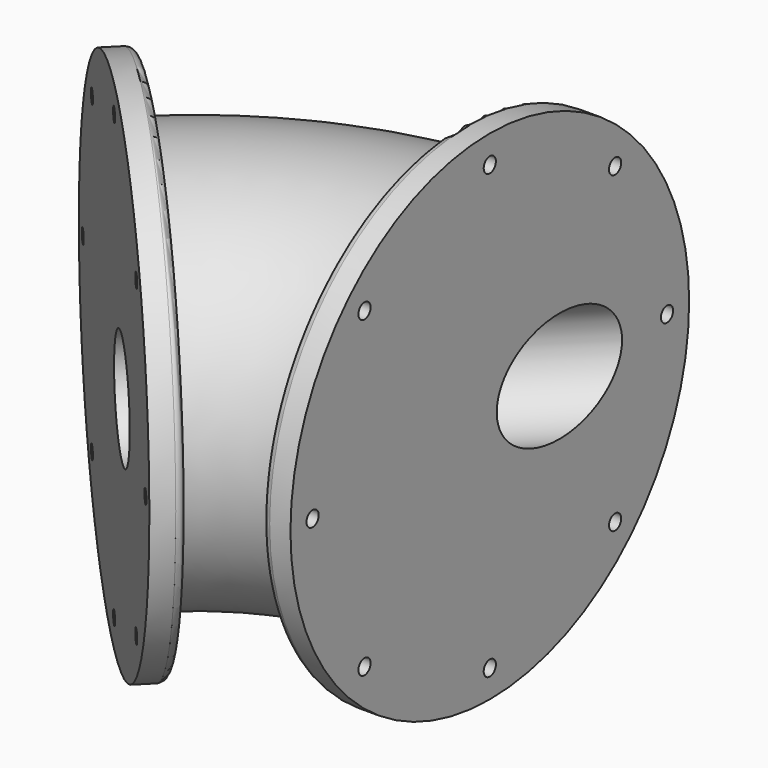
from build123d import *

# Parameters (mm, degrees)
F0_R      = 88.9
F3_R      = 114.3
F3_R_2    = 3.175
F4_DEPTH  = 12.7
F5_R      = 114.3
F5_R_2    = 3.4925
F6_DEPTH  = 12.7
F7_R      = 3.175
F9_R      = 25.4
F10_DEPTH = 203.2
F13_ANGLE = 135


with BuildPart() as f2:
    # F2: sweep along a path in F1
    with BuildLine(Plane.XY) as f2_path:
        ThreePointArc((-44.6369265441, -107.7640477113), (-11.6005728266, -58.3214793019), (0, 0))
    # F0 (on Front) → F2 (sweep)
    with BuildSketch(Plane.XZ):
        Circle(F0_R)
    sweep(path=f2_path.line)

    # F3 (on face) → F4 (join)
    with BuildSketch(Plane(origin=(0, 0, 0), x_dir=(-1, 0, 0), z_dir=(0, 1, 0))):
        Circle(F3_R)
        with Locations((-71.8420489686, -71.8420489686)):
            Circle(F3_R_2, mode=Mode.SUBTRACT)
        with Locations((0, -101.6)):
            Circle(F3_R_2, mode=Mode.SUBTRACT)
        with Locations((71.8420489686, -71.8420489686)):
            Circle(F3_R_2, mode=Mode.SUBTRACT)
        with Locations((-101.6, 0)):
            Circle(F3_R_2, mode=Mode.SUBTRACT)
        with Locations((-71.8420489686, 71.8420489686)):
            Circle(F3_R_2, mode=Mode.SUBTRACT)
        with Locations((101.6, 0)):
            Circle(F3_R_2, mode=Mode.SUBTRACT)
        with Locations((0, 101.6)):
            Circle(F3_R_2, mode=Mode.SUBTRACT)
        with Locations((71.8420489686, 71.8420489686)):
            Circle(F3_R_2, mode=Mode.SUBTRACT)
    extrude(amount=F4_DEPTH)

    # F5 (on face) → F6 (join)
    with BuildSketch(Plane(origin=(-76.200772477, -76.1997982148, 0), x_dir=(0.7071022608, -0.7071113015, 0), z_dir=(-0.7071113015, -0.7071022608, 0))):
        with Locations((44.6383043625, 0)):
            Circle(F5_R)
        with Locations((-27.2037446061, -71.8420489686)):
            Circle(F5_R_2, mode=Mode.SUBTRACT)
        with Locations((44.6383043625, -101.6)):
            Circle(F5_R_2, mode=Mode.SUBTRACT)
        with Locations((116.480353331, -71.8420489686)):
            Circle(F5_R_2, mode=Mode.SUBTRACT)
        with Locations((-56.9616956375, 0)):
            Circle(F5_R_2, mode=Mode.SUBTRACT)
        with Locations((-27.2037446061, 71.8420489686)):
            Circle(F5_R_2, mode=Mode.SUBTRACT)
        with Locations((44.6383043625, 101.6)):
            Circle(F5_R_2, mode=Mode.SUBTRACT)
        with Locations((146.2383043625, 0)):
            Circle(F5_R_2, mode=Mode.SUBTRACT)
        with Locations((116.480353331, 71.8420489686)):
            Circle(F5_R_2, mode=Mode.SUBTRACT)
    extrude(amount=F6_DEPTH)

    # F7
    f7_edges = [f2.edges().sort_by_distance(p)[0] for p in [
        (-125.458715, -26.941226, 0),
        (114.3, 0, 0),
    ]]
    fillet(f7_edges, radius=F7_R)


with BuildPart() as f10:
    # F9 (on Front) → F10 (new body)
    with BuildSketch(Plane.XZ):
        with Locations((-25.4, 0)):
            Circle(F9_R)
    extrude(amount=F10_DEPTH)


with BuildPart() as f10_1:
    # F11: moved
    add(f10.part.moved(Location((0, 25.4, 0))))


with BuildPart() as f2_1:
    add(f2.part)

    # F12: cut F10
    add(f10_1.part, mode=Mode.SUBTRACT)


with BuildPart() as f2_2:
    # F13: moved
    add(f2_1.part.rotate(Axis((0, 0, 85.4904651642), (0, 0, 1)), F13_ANGLE))


solid = f2_2.part
